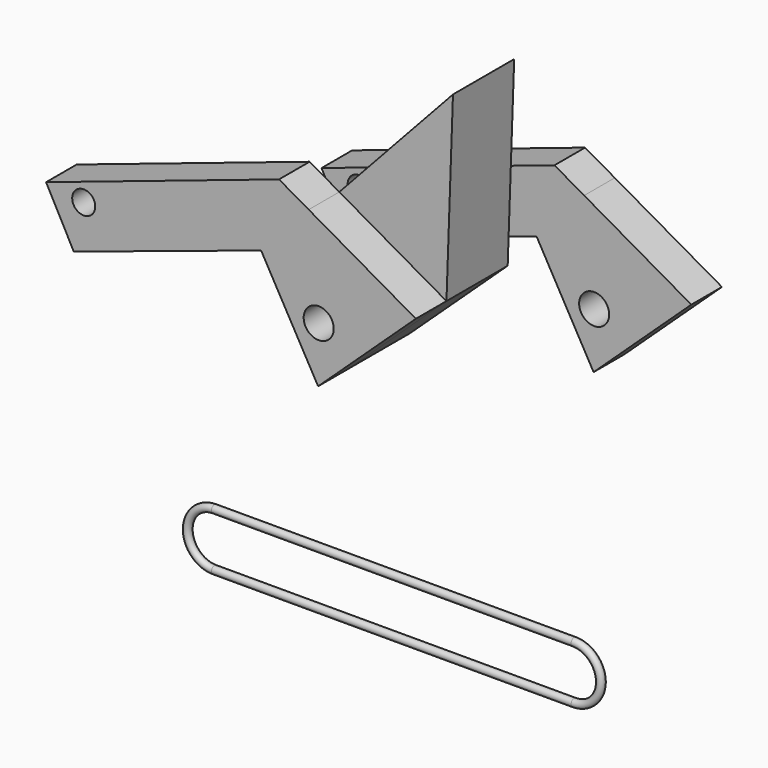
from build123d import *

# Parameters (mm, degrees)
F2_R      = 0.5
F4_R      = 1.5053682029
F4_R_2    = 1.9627605304
F5_DEPTH  = 5
F6_DEPTH  = 25
F8_DEPTH  = 10
F10_DEPTH = 10


with BuildPart() as f3:
    # F3: sweep along a path in F0
    with BuildLine(Plane.XZ) as f3_path:
        Line((-23.5, 3.5), (23.5, 3.5))
        ThreePointArc((23.5, 3.5), (27, 0), (23.5, -3.5))
        Line((23.5, -3.5), (-23.5, -3.5))
        ThreePointArc((-23.5, -3.5), (-27, 0), (-23.5, 3.5))
    # F2 (on line) → F3 (sweep)
    with BuildSketch(Plane.YZ.offset(-23.5)):
        with Locations((0, 3.5)):
            Circle(F2_R)
    sweep(path=f3_path.line)


with BuildPart() as f5:
    # F4 (on Front) → F5 (new body)
    with BuildSketch(Plane.XZ):
        Polygon((-11.0703520477, 47.4747717381), (-41.5138192475, 37.255987525), (-37.8946624696, 30.4434634745), (-13.4121570736, 38.533333689), (-7.1905229842, 45.2577267898), align=None)
        with Locations((-36.5945994854, 36.5315191448)):
            Circle(F4_R, mode=Mode.SUBTRACT)
        Polygon((6.8125221878, 37.255987525), (-7.1905229842, 45.2577267898), (-13.4121570736, 38.533333689), (-5.9609599411, 25.3340695053), align=None)
        with Locations((-5.8850664645, 32.6175577939)):
            Circle(F4_R_2, mode=Mode.SUBTRACT)
    extrude(amount=F5_DEPTH)


with BuildPart() as f6:
    # F4 (on Front) → F6 (new body)
    with BuildSketch(Plane.XZ):
        Polygon((-11.0703520477, 47.4747717381), (-41.5138192475, 37.255987525), (-37.8946624696, 30.4434634745), (-13.4121570736, 38.533333689), (-7.1905229842, 45.2577267898), align=None)
        with Locations((-36.5945994854, 36.5315191448)):
            Circle(F4_R, mode=Mode.SUBTRACT)
        Polygon((7.6640886255, 61.312712729), (-7.1905229842, 45.2577267898), (6.8125221878, 37.255987525), align=None)
        Polygon((6.8125221878, 37.255987525), (-7.1905229842, 45.2577267898), (-13.4121570736, 38.533333689), (-5.9609599411, 25.3340695053), align=None)
        with Locations((-5.8850664645, 32.6175577939)):
            Circle(F4_R_2, mode=Mode.SUBTRACT)
    extrude(amount=F6_DEPTH)


with BuildPart() as f8:
    # F4 (on Front) → F8 (new body)
    with BuildSketch(Plane.XZ):
        Polygon((7.6640886255, 61.312712729), (-7.1905229842, 45.2577267898), (6.8125221878, 37.255987525), align=None)
        Polygon((6.8125221878, 37.255987525), (-7.1905229842, 45.2577267898), (-13.4121570736, 38.533333689), (-5.9609599411, 25.3340695053), align=None)
        with Locations((-5.8850664645, 32.6175577939)):
            Circle(F4_R_2, mode=Mode.SUBTRACT)
    extrude(amount=F8_DEPTH)


with BuildPart() as f10:
    # F4 (on Front) → F10 (new body)
    with BuildSketch(Plane.XZ):
        Polygon((7.6640886255, 61.312712729), (-7.1905229842, 45.2577267898), (6.8125221878, 37.255987525), align=None)
        Polygon((6.8125221878, 37.255987525), (-7.1905229842, 45.2577267898), (-13.4121570736, 38.533333689), (-5.9609599411, 25.3340695053), align=None)
        with Locations((-5.8850664645, 32.6175577939)):
            Circle(F4_R_2, mode=Mode.SUBTRACT)
        with Locations((-5.8850664645, 32.6175577939)):
            Circle(F4_R_2)
    extrude(amount=-F10_DEPTH)


with BuildPart() as f11_1:
    # F11: copy of F5
    add(f5.part.moved(Location((20, 20, 0))))


solid = Compound([f3.part, f5.part, f10.part, f11_1.part])
